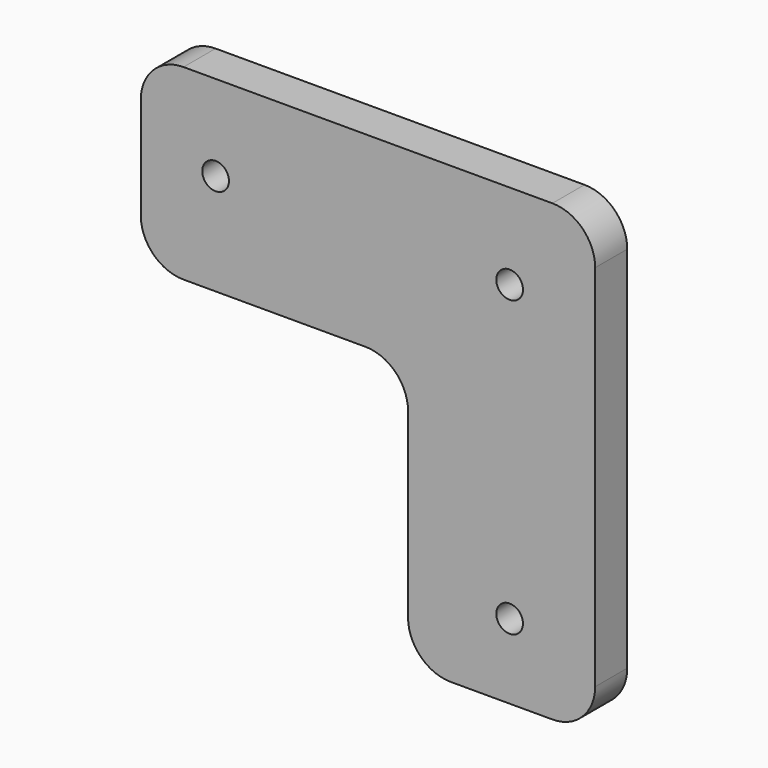
from build123d import *

# Parameters (mm, degrees)
F0_R     = 1.5875
F1_DEPTH = 4.7625
F2_R     = 5.08


with BuildPart() as f1:
    # F0 (on Front) → F1 (new body)
    with BuildSketch(Plane.XZ):
        Polygon((31.876553, 35.699212), (-22.098447, 35.699212), (-22.098447, 13.474212), (9.651553, 13.474212), (9.651553, -18.275788), (31.876553, -18.275788), align=None)
        with Locations((21.716553, -9.385788)):
            Circle(F0_R, mode=Mode.SUBTRACT)
        with Locations((-13.208447, 25.539212)):
            Circle(F0_R, mode=Mode.SUBTRACT)
        with Locations((21.716553, 25.539212)):
            Circle(F0_R, mode=Mode.SUBTRACT)
    extrude(amount=F1_DEPTH)

    # F2
    f2_edges = [f1.edges().sort_by_distance(p)[0] for p in [
        (-22.098447, -2.38125, 35.699212),
        (-22.098447, -2.38125, 13.474212),
        (9.651553, -2.38125, -18.275788),
        (31.876553, -2.38125, 35.699212),
        (31.876553, -2.38125, -18.275788),
        (9.651553, -2.38125, 13.474212),
    ]]
    fillet(f2_edges, radius=F2_R)


solid = f1.part
